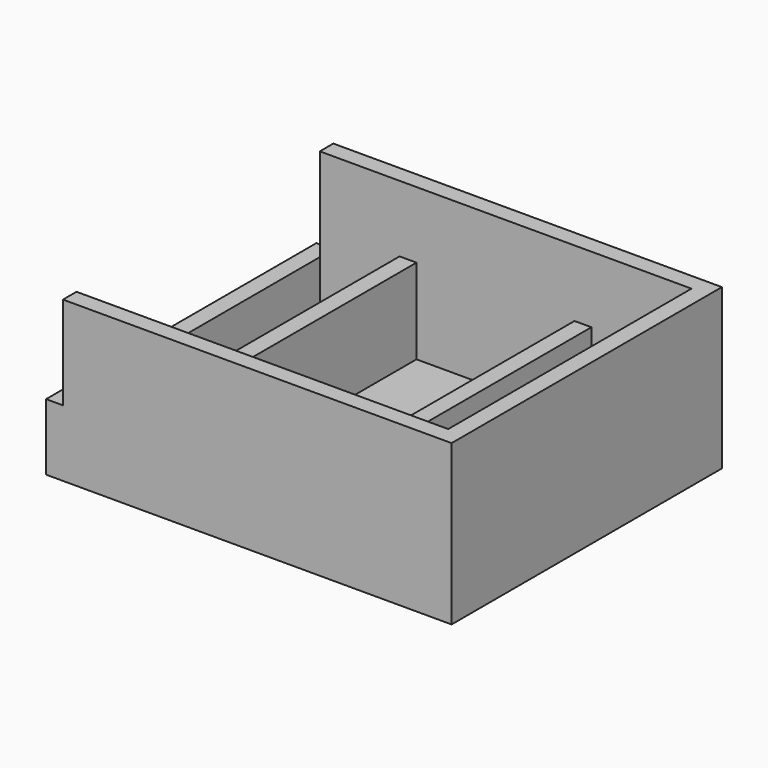
from build123d import *

# Parameters (mm, degrees)
F0_W     = 6.3500022411
F0_H     = 6.3500011563
F0_H_2   = 114.2999988437
F0_H_3   = 6.35
F1_DEPTH = 25
F0_W_2   = 6.35
F2_DEPTH = 60
F0_W_3   = 6.3499994576
F3_DEPTH = 35
F4_DEPTH = 7
F0_W_4   = 29.9864560366
F0_W_5   = 59.3868153334
F5_DEPTH = 3


with BuildPart() as f1:
    # F0 (on Top) → F1 (new body)
    with BuildSketch(Plane.XY):
        with Locations((-73.0249988794, -60.3249994218)):
            Rectangle(F0_W, F0_H)
        with Locations((-73.0249988794, 5.782e-07)):
            Rectangle(F0_W, F0_H_2)
        with Locations((-73.0249988794, 60.325)):
            Rectangle(F0_W, F0_H_3)
    extrude(amount=F1_DEPTH)

    # F0 (on Top) → F2 (join)
    with BuildSketch(Plane.XY):
        Polygon((-39.8635417223, -57.1499988437), (-69.8499977589, -57.1499988437), (-69.8499977589, -63.5), (69.85, -63.5), (69.85, -57.1499988437), (51.0366365343, -57.1499988437), (32.2232730687, -57.1499988437), (25.8732736111, -57.1499988437), (-33.5135417223, -57.1499988437), align=None)
        Polygon((69.85, 63.5), (-69.8499977589, 63.5), (-69.8499977589, 57.15), (-39.8635417223, 57.15), (-33.5135417223, 57.15), (25.8732736111, 57.15), (32.2232730687, 57.15), (51.0366365343, 57.15), (69.85, 57.15), align=None)
        with Locations((73.025, 5.782e-07)):
            Rectangle(F0_W_2, F0_H_2)
        with Locations((73.025, -60.3249994218)):
            Rectangle(F0_W_2, F0_H)
        with Locations((73.025, 60.325)):
            Rectangle(F0_W_2, F0_H_3)
    extrude(amount=F2_DEPTH)

    # F0 (on Top) → F3 (join)
    with BuildSketch(Plane.XY):
        with Locations((-36.6885417223, 5.782e-07)):
            Rectangle(F0_W_2, F0_H_2)
        with Locations((29.0482733399, 5.782e-07)):
            Rectangle(F0_W_3, F0_H_2)
    extrude(amount=F3_DEPTH)

    # F0 (on Top) → F4 (join)
    with BuildSketch(Plane.XY):
        with BuildLine():
            Line((51.0366365343, 55.0795492828), (51.0366365343, 57.15))
            Line((51.0366365343, 57.15), (32.2232730687, 57.15))
            Line((32.2232730687, 57.15), (32.2232730687, -57.1499988437))
            Line((32.2232730687, -57.1499988437), (51.0366365343, -57.1499988437))
            Line((51.0366365343, -57.1499988437), (51.0366365343, -55.5998345017))
            ThreePointArc((51.0366365343, -55.5998345017), (38.0366365343, -42.5998345017), (51.0366365343, -29.5998345017))
            Line((51.0366365343, -29.5998345017), (51.0366365343, -26.8984061778))
            ThreePointArc((51.0366365343, -26.8984061778), (38.0366365343, -13.8984061778), (51.0366365343, -0.8984061778))
            Line((51.0366365343, -0.8984061778), (51.0366365343, 1.5994620398))
            ThreePointArc((51.0366365343, 1.5994620398), (38.0366365343, 14.5994620398), (51.0366365343, 27.5994620398))
            Line((51.0366365343, 27.5994620398), (51.0366365343, 29.0795492828))
            ThreePointArc((51.0366365343, 29.0795492828), (38.0366365343, 42.0795492828), (51.0366365343, 55.0795492828))
        make_face()
        with BuildLine():
            Line((69.85, -57.1499988437), (69.85, 57.15))
            Line((69.85, 57.15), (51.0366365343, 57.15))
            Line((51.0366365343, 57.15), (51.0366365343, 55.0795492828))
            ThreePointArc((51.0366365343, 55.0795492828), (60.2290246898, 51.2719374382), (64.0366365343, 42.0795492828))
            ThreePointArc((64.0366365343, 42.0795492828), (60.2290246898, 32.8871611274), (51.0366365343, 29.0795492828))
            Line((51.0366365343, 29.0795492828), (51.0366365343, 27.5994620398))
            ThreePointArc((51.0366365343, 27.5994620398), (60.2290246898, 23.7918501952), (64.0366365343, 14.5994620398))
            ThreePointArc((64.0366365343, 14.5994620398), (60.2290246898, 5.4070738843), (51.0366365343, 1.5994620398))
            Line((51.0366365343, 1.5994620398), (51.0366365343, -0.8984061778))
            ThreePointArc((51.0366365343, -0.8984061778), (60.2290246898, -4.7060180223), (64.0366365343, -13.8984061778))
            ThreePointArc((64.0366365343, -13.8984061778), (60.2290246898, -23.0907943332), (51.0366365343, -26.8984061778))
            Line((51.0366365343, -26.8984061778), (51.0366365343, -29.5998345017))
            ThreePointArc((51.0366365343, -29.5998345017), (60.2290246898, -33.4074463463), (64.0366365343, -42.5998345017))
            ThreePointArc((64.0366365343, -42.5998345017), (60.2290246898, -51.7922226572), (51.0366365343, -55.5998345017))
            Line((51.0366365343, -55.5998345017), (51.0366365343, -57.1499988437))
            Line((51.0366365343, -57.1499988437), (69.85, -57.1499988437))
        make_face()
    extrude(amount=F4_DEPTH)

    # F0 (on Top) → F5 (join)
    with BuildSketch(Plane.XY):
        with Locations((-54.8567697406, 5.782e-07)):
            Rectangle(F0_W_4, F0_H_2)
        with Locations((-3.8201340556, 5.782e-07)):
            Rectangle(F0_W_5, F0_H_2)
        with BuildLine():
            ThreePointArc((51.0366365343, -29.5998345017), (38.0366365343, -42.5998345017), (51.0366365343, -55.5998345017))
            Line((51.0366365343, -55.5998345017), (51.0366365343, -29.5998345017))
        make_face()
        with BuildLine():
            Line((51.0366365343, -29.5998345017), (51.0366365343, -55.5998345017))
            ThreePointArc((51.0366365343, -55.5998345017), (60.2290246898, -51.7922226572), (64.0366365343, -42.5998345017))
            ThreePointArc((64.0366365343, -42.5998345017), (60.2290246898, -33.4074463463), (51.0366365343, -29.5998345017))
        make_face()
        with BuildLine():
            Line((51.0366365343, -0.8984061778), (51.0366365343, -26.8984061778))
            ThreePointArc((51.0366365343, -26.8984061778), (60.2290246898, -23.0907943332), (64.0366365343, -13.8984061778))
            ThreePointArc((64.0366365343, -13.8984061778), (60.2290246898, -4.7060180223), (51.0366365343, -0.8984061778))
        make_face()
        with BuildLine():
            ThreePointArc((51.0366365343, -0.8984061778), (38.0366365343, -13.8984061778), (51.0366365343, -26.8984061778))
            Line((51.0366365343, -26.8984061778), (51.0366365343, -0.8984061778))
        make_face()
        with BuildLine():
            Line((51.0366365343, 1.5994620398), (51.0366365343, 27.5994620398))
            ThreePointArc((51.0366365343, 27.5994620398), (38.0366365343, 14.5994620398), (51.0366365343, 1.5994620398))
        make_face()
        with BuildLine():
            ThreePointArc((64.0366365343, 14.5994620398), (60.2290246898, 23.7918501952), (51.0366365343, 27.5994620398))
            Line((51.0366365343, 27.5994620398), (51.0366365343, 1.5994620398))
            ThreePointArc((51.0366365343, 1.5994620398), (60.2290246898, 5.4070738843), (64.0366365343, 14.5994620398))
        make_face()
        with BuildLine():
            ThreePointArc((64.0366365343, 42.0795492828), (60.2290246898, 51.2719374382), (51.0366365343, 55.0795492828))
            Line((51.0366365343, 55.0795492828), (51.0366365343, 29.0795492828))
            ThreePointArc((51.0366365343, 29.0795492828), (60.2290246898, 32.8871611274), (64.0366365343, 42.0795492828))
        make_face()
        with BuildLine():
            Line((51.0366365343, 29.0795492828), (51.0366365343, 55.0795492828))
            ThreePointArc((51.0366365343, 55.0795492828), (38.0366365343, 42.0795492828), (51.0366365343, 29.0795492828))
        make_face()
    extrude(amount=F5_DEPTH)


solid = f1.part
